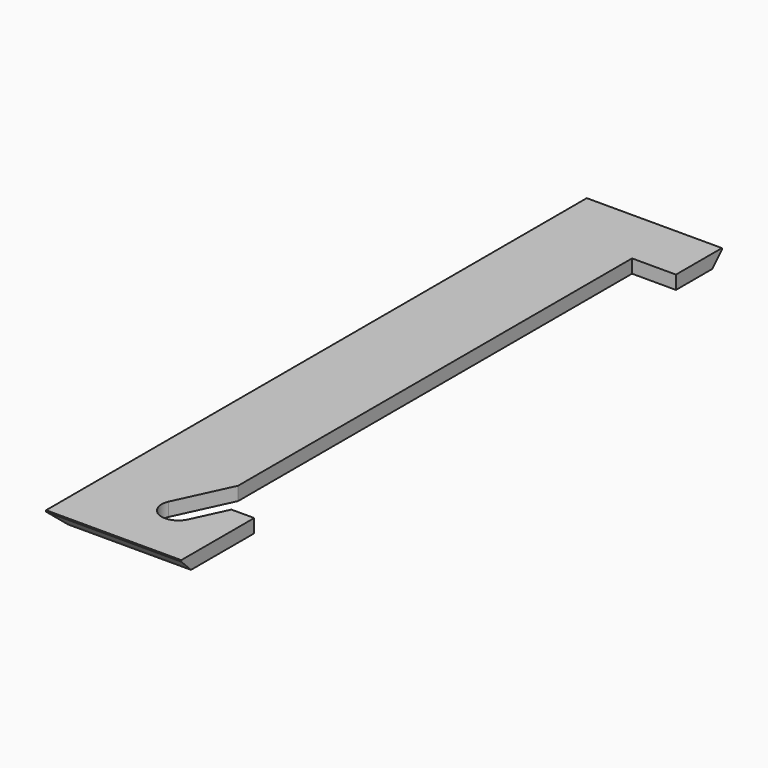
from build123d import *

# Parameters (mm, degrees)
SKETCH_W     = 40
SKETCH_H     = 100
SKETCH_R     = 2.5
PAD_DEPTH    = 2
CHAMFER_SIZE = 1.8
BOX_W        = 22
BOX_H        = 119
BOX_DEPTH    = 7
BOX001_W     = 5
BOX001_H     = 9
BOX001_DEPTH = 2


with BuildPart() as part:
    # Sketch → Pad (new body)
    with BuildSketch(Plane.XY):
        Rectangle(SKETCH_W, SKETCH_H)
        with Locations((-8, -40.5)):
            Circle(SKETCH_R, mode=Mode.SUBTRACT)
        with Locations((8, 40.5)):
            Circle(SKETCH_R, mode=Mode.SUBTRACT)
        Polygon((6.5, -41.5), (6.5, 36.5), (0, 36.5), (0, 41.5), (-6.5, 41.5), (-6.5, -36.5), (0, -36.5), (0, -41.5), align=None, mode=Mode.SUBTRACT)
    extrude(amount=PAD_DEPTH)

    # Chamfer
    chamfer_edges = [part.edges().sort_by_distance(p)[0] for p in [
        (-20, 0, 0),
        (0, -50, 0),
        (20, 0, 0),
        (0, 50, 0),
    ]]
    chamfer(chamfer_edges, length=CHAMFER_SIZE)

    # Box → Box (cut)
    with BuildSketch(Plane(origin=(0, 58, 4), x_dir=(1, 0, 0), z_dir=(0, 0, -1))):
        with Locations((11, 59.5)):
            Rectangle(BOX_W, BOX_H)
    extrude(amount=BOX_DEPTH, mode=Mode.SUBTRACT)

    # Box001 → Box001 (cut)
    with BuildSketch(Plane(origin=(-10.3, -39.5, 0), x_dir=(0.906308, -0.422618, 0), z_dir=(0, 0, 1))):
        with Locations((2.5, 4.5)):
            Rectangle(BOX001_W, BOX001_H)
    extrude(amount=BOX001_DEPTH, mode=Mode.SUBTRACT)


solid = part.part
